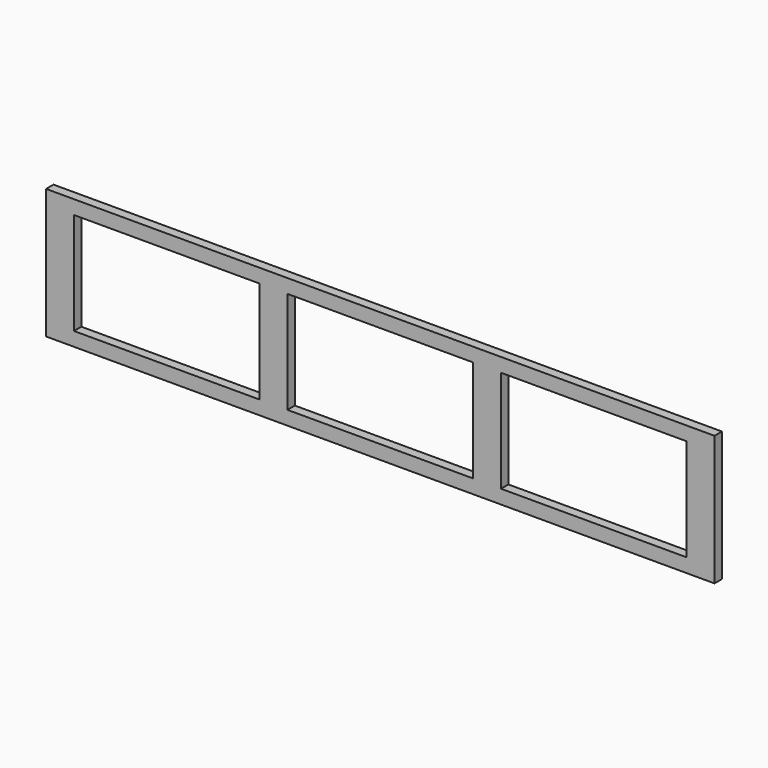
from build123d import *

# Parameters (mm, degrees)
F0_W     = 1828.8
F0_H     = 355.6
F1_DEPTH = 25.4
F2_W     = 508
F2_H     = 279.4
F3_DEPTH = 25.4


with BuildPart() as f1:
    # F0 (on Front) → F1 (new body)
    with BuildSketch(Plane.XZ):
        with Locations((914.4, 177.8)):
            Rectangle(F0_W, F0_H)
    extrude(amount=F1_DEPTH)

    # F2 (on face) → F3 (cut)
    with BuildSketch(Plane.XZ.offset(25.4)):
        with Locations((330.2, 177.8)):
            Rectangle(F2_W, F2_H)
        with Locations((914.4, 177.8)):
            Rectangle(F2_W, F2_H)
        with Locations((1498.6, 177.8)):
            Rectangle(F2_W, F2_H)
    extrude(amount=-F3_DEPTH, mode=Mode.SUBTRACT)


solid = f1.part
